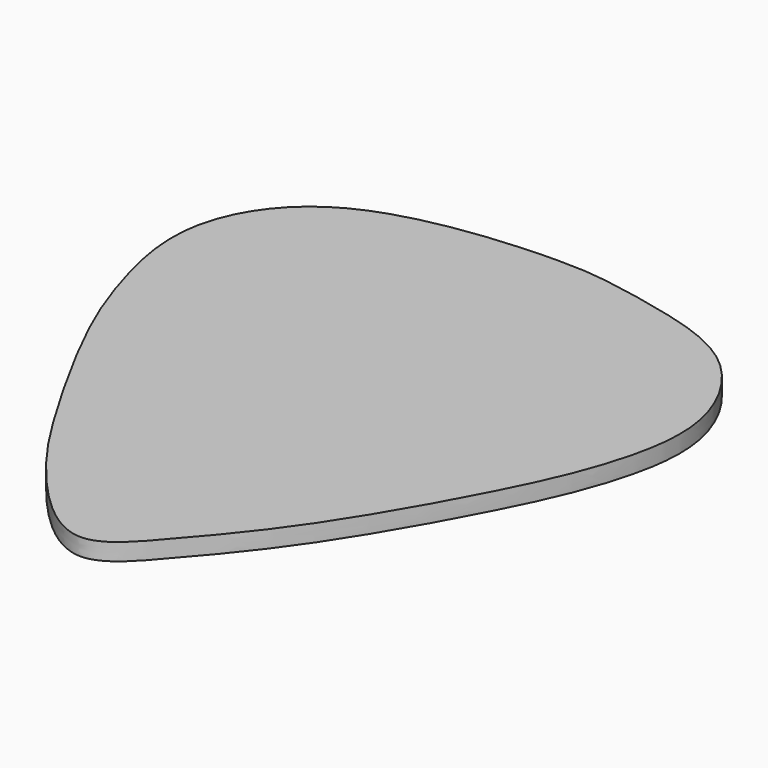
from build123d import *

# Parameters (mm, degrees)
F1_DEPTH = 0.89916


with BuildPart() as f1:
    # F0 (on Top) → F1 (new body)
    with BuildSketch(Plane.XY):
        with BuildLine():
            add(Edge.make_bspline(
                [(0, 16.9296066064), (1.271687985, 16.9371941932), (2.7111940936, 16.7927143865), (6.48691208, 16.059993076), (11.0830476321, 14.6566236008), (14.1034218231, 9.503650008), (13.0939639707, 4.3402439484), (11.260581544, -0.0566610655), (6.9490547273, -7.800945281), (3.2193069478, -12.1733113904), (0.0100004122, -15.8480192314), (-4.7495942244, -11.127995154), (-7.5606774836, -6.8114575581), (-11.3538361202, -0.0234565028), (-13.0207295304, 4.517369364), (-14.3369562695, 10.1604107283), (-10.3964087166, 16.4163258601), (-2.3632919155, 16.9155059128), (0, 16.9296066064)],
                knots=[0, 0, 0, 0, 0.0448197202, 0.0954242363, 0.1532945907, 0.215463043, 0.2745256518, 0.3333525395, 0.4123257389, 0.4783433231, 0.5290817852, 0.590761281, 0.6545228952, 0.7277164233, 0.7871855283, 0.8486254649, 0.9167074914, 1, 1, 1, 1], degree=3))
        make_face()
    extrude(amount=F1_DEPTH)


solid = f1.part
